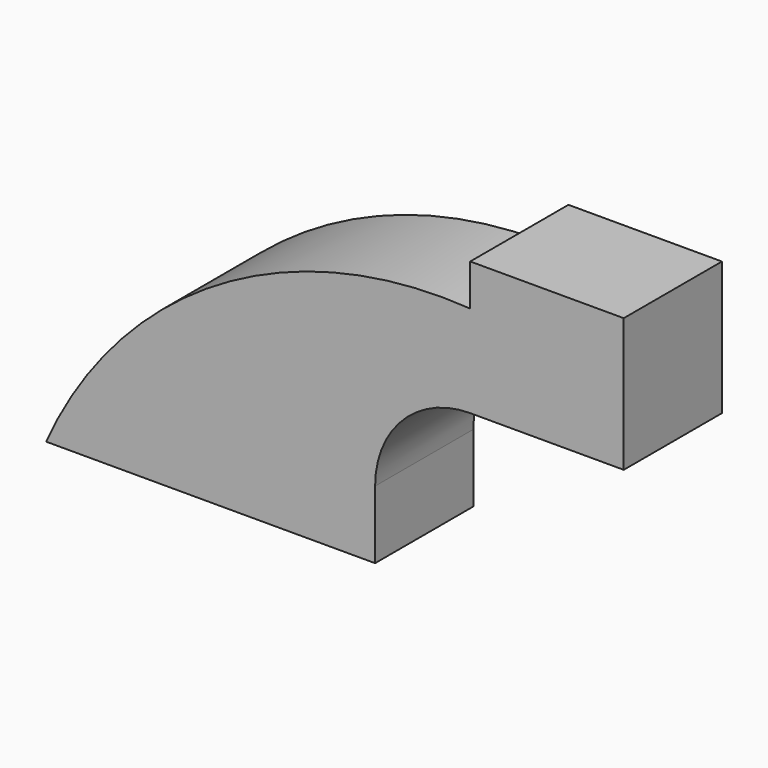
from build123d import *

# Parameters (mm, degrees)
F1_DEPTH = 25.4


with BuildPart() as f1:
    # F0 (on Front) → F1 (new body)
    with BuildSketch(Plane.XZ):
        Polygon((56.856412, 74.760954), (56.856412, 55.710954), (88.627096, 55.710954), (88.627096, 83.346918), (56.856412, 83.346918), align=None)
        with BuildLine():
            Line((-30.933438, 21.966385), (18.116245, 21.966385))
            Line((18.116245, 21.966385), (18.116245, 36.020787))
            ThreePointArc((18.116245, 36.020787), (29.462977, 63.414222), (56.856412, 74.760954))
            ThreePointArc((56.856412, 74.760954), (4.674775, 62.14329), (-30.933438, 21.966385))
        make_face()
        with BuildLine():
            Line((18.116245, 21.966385), (37.166245, 21.966385))
            Line((37.166245, 21.966385), (37.166245, 36.020787))
            ThreePointArc((37.166245, 36.020787), (42.933361, 49.943838), (56.856412, 55.710954))
            Line((56.856412, 55.710954), (56.856412, 74.760954))
            ThreePointArc((56.856412, 74.760954), (29.462977, 63.414222), (18.116245, 36.020787))
            Line((18.116245, 36.020787), (18.116245, 21.966385))
        make_face()
    extrude(amount=F1_DEPTH)


solid = f1.part
